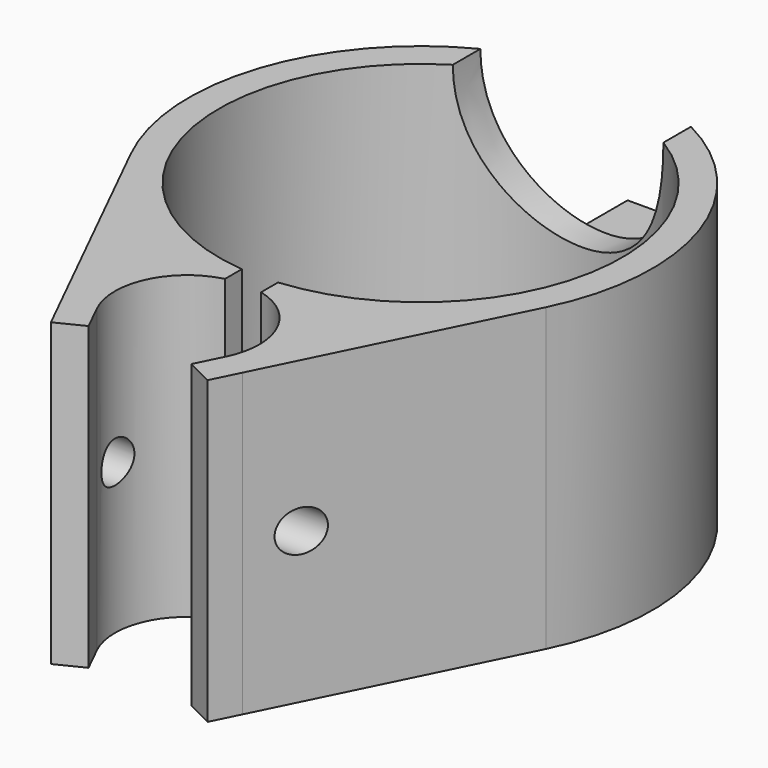
from build123d import *

# Parameters (mm, degrees)
F0_R      = 12
F0_R_2    = 33.5
F1_DEPTH  = 50
F4_DEPTH  = 25
F5_W      = 12
F5_H      = 25
F6_DEPTH  = 1
F7_DEPTH  = 12
F8_R      = 3.429
F9_DEPTH  = 30
F10_R     = 1.75
F11_DEPTH = 25
F12_W     = 6
F12_H     = 8.7619052733
F13_DEPTH = 55
F15_DEPTH = 52
F17_DEPTH = 50


with BuildPart() as f1:
    # F0 (on Top) → F1 (new body)
    with BuildSketch(Plane.XY):
        with BuildLine():
            ThreePointArc((34.510392045, 31.4329896907), (0, 87), (-34.510392045, 31.4329896907))
            Line((-34.510392045, 31.4329896907), (-15.238354929, -7.5360824742))
            ThreePointArc((-15.238354929, -7.5360824742), (0, -17), (15.238354929, -7.5360824742))
            Line((15.238354929, -7.5360824742), (34.510392045, 31.4329896907))
        make_face()
        Circle(F0_R, mode=Mode.SUBTRACT)
        with Locations((0, 48.5)):
            Circle(F0_R_2, mode=Mode.SUBTRACT)
    extrude(amount=F1_DEPTH)

    # F3 (on offset) → F4 (cut)
    with BuildSketch(Plane.XZ.offset(-87)):
        with BuildLine():
            add(Edge.make_bspline(
                [(17.5, 50), (17.5, 73), (0, 73), (-17.5, 73), (-17.5, 50)],
                knots=[1.5707963268, 1.5707963268, 1.5707963268, 3.1415926536, 3.1415926536, 4.7123889804, 4.7123889804, 4.7123889804], degree=2, weights=[1, 0.7071067812, 1, 0.7071067812, 1]))
            Line((-17.5, 50), (17.5, 50))
        make_face()
        with BuildLine():
            Line((17.5, 50), (-17.5, 50))
            add(Edge.make_bspline(
                [(-17.5, 50), (-17.5, 27), (0, 27)],
                knots=[4.7123889804, 4.7123889804, 4.7123889804, 6.2831853072, 6.2831853072, 6.2831853072], degree=2, weights=[1, 0.7071067812, 1]))
            add(Edge.make_bspline(
                [(0, 27), (17.5, 27), (17.5, 50)],
                knots=[0, 0, 0, 1.5707963268, 1.5707963268, 1.5707963268], degree=2, weights=[1, 0.7071067812, 1]))
        make_face()
    extrude(amount=F4_DEPTH, mode=Mode.SUBTRACT)

    # F5 (on offset) → F6 (join)
    with BuildSketch(Plane.XZ.offset(-87)):
        with Locations((0, 12.5)):
            Rectangle(F5_W, F5_H)
    extrude(amount=F6_DEPTH)

    # F5 (on offset) → F7 (join)
    with BuildSketch(Plane.XZ.offset(-87)):
        with Locations((0, 12.5)):
            Rectangle(F5_W, F5_H)
    extrude(amount=-F7_DEPTH)

    # F8 (on Right) → F9 (cut, symmetric)
    with BuildSketch(Plane.YZ):
        with Locations((0, 25)):
            Circle(F8_R)
    extrude(amount=F9_DEPTH, both=True, mode=Mode.SUBTRACT)

    # F10 (on face) → F11 (cut)
    with BuildSketch(Plane(origin=(-6, 0, 0), x_dir=(0, -1, 0), z_dir=(-1, 0, 0))):
        with Locations((-92.7647968698, 12.5)):
            Circle(F10_R)
    extrude(amount=-F11_DEPTH, mode=Mode.SUBTRACT)

    # F12 (on face) → F13 (cut)
    with BuildSketch(Plane.XY.offset(50)):
        with Locations((0, 13.4115335532)):
            Rectangle(F12_W, F12_H)
    extrude(amount=-F13_DEPTH, mode=Mode.SUBTRACT)

    # F14 (on face) → F15 (cut)
    with BuildSketch(Plane.XY.offset(50)):
        with BuildLine():
            ThreePointArc((10.7564858322, -5.3195876289), (0, -12), (-10.7564858322, -5.3195876289))
            Line((-10.7564858322, -5.3195876289), (-15.238354929, -7.5360824742))
            ThreePointArc((-15.238354929, -7.5360824742), (0, -17), (15.238354929, -7.5360824742))
            Line((15.238354929, -7.5360824742), (10.7564858322, -5.3195876289))
        make_face()
    extrude(amount=-F15_DEPTH, mode=Mode.SUBTRACT)

    # F16 (on Top) → F17 (join)
    with BuildSketch(Plane.XY):
        Polygon((-10.7564858322, -5.3195876289), (-15.238354929, -7.5360824742), (-13.0218600836, -12.017951571), (-8.5399909869, -9.8014567256), align=None)
        Polygon((13.0218600836, -12.017951571), (15.238354929, -7.5360824742), (10.7564858322, -5.3195876289), (8.5399909869, -9.8014567256), align=None)
    extrude(amount=F17_DEPTH)


solid = f1.part
